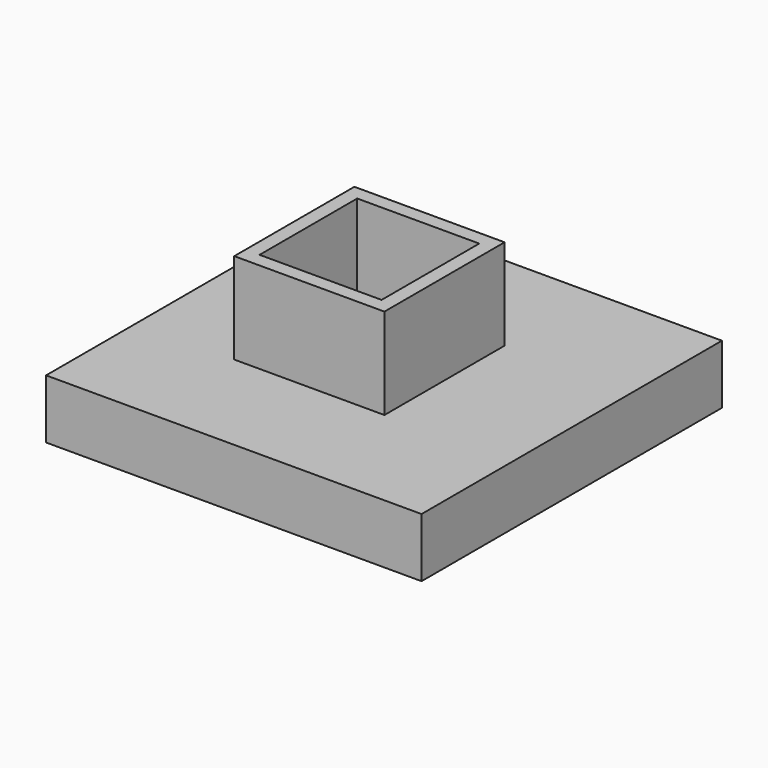
from build123d import *

# Parameters (mm, degrees)
F0_W     = 16
F0_H     = 16
F0_W_2   = 13
F0_H_2   = 13
F1_DEPTH = 16
F3_DEPTH = 6.3


with BuildPart() as f1:
    # F0 (on Top) → F1 (new body)
    with BuildSketch(Plane.XY):
        Rectangle(F0_W, F0_H)
        Rectangle(F0_W_2, F0_H_2, mode=Mode.SUBTRACT)
    extrude(amount=F1_DEPTH)

    # F2 (on Top) → F3 (join)
    with BuildSketch(Plane.XY):
        Polygon((-18.4455, 20), (-18.4455, -20), (21.5545, -20), (21.5545, 20), (0, 20), align=None)
    extrude(amount=F3_DEPTH)


solid = f1.part
